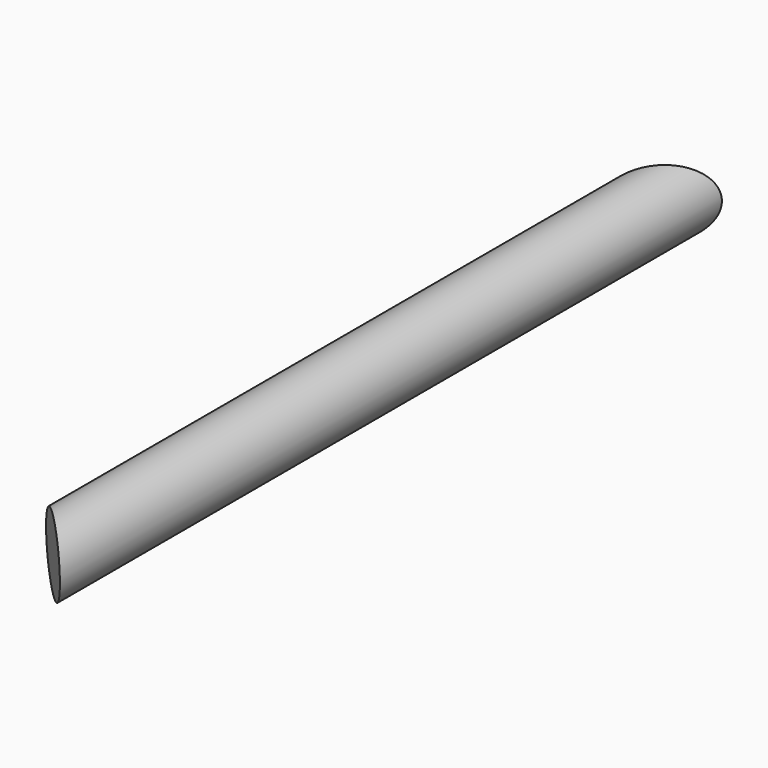
from build123d import *

# Parameters (mm, degrees)
F0_R     = 12.7
F1_DEPTH = 304.8
F3_DEPTH = 24.13


with BuildPart() as f1:
    # F0 (on Front) → F1 (new body)
    with BuildSketch(Plane.XZ):
        Circle(F0_R)
    extrude(amount=F1_DEPTH)

    # F2 (on Top) → F3 (cut, symmetric)
    with BuildSketch(Plane.XY):
        Polygon((-12.7, -25.4), (12.7, 0), (-12.7, 0), align=None)
        Polygon((-12.7, -304.8), (12.7, -304.8), (-12.7, -279.4), align=None)
    extrude(amount=F3_DEPTH, both=True, mode=Mode.SUBTRACT)


solid = f1.part
